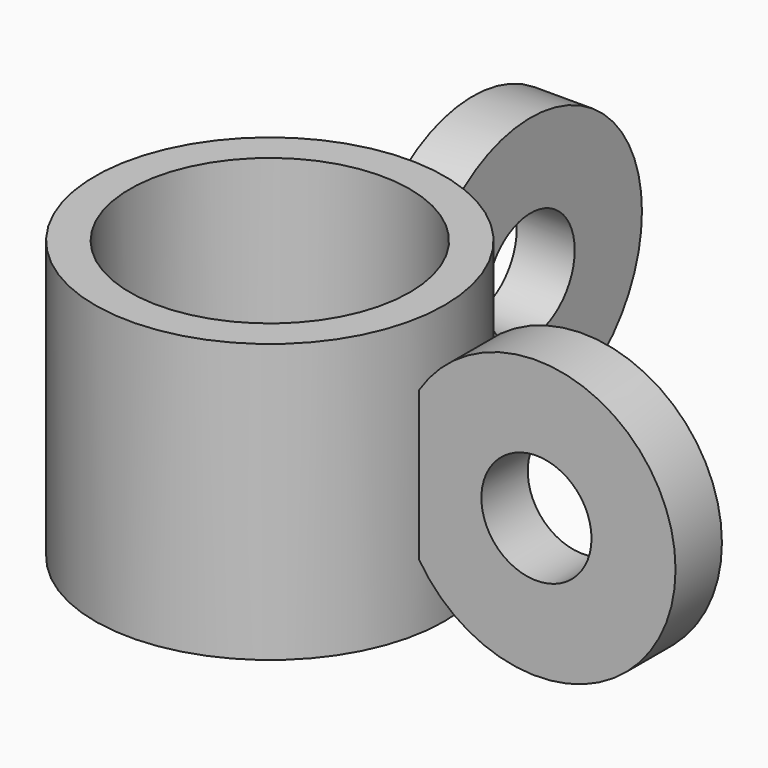
from build123d import *

# Parameters (mm, degrees)
SKETCH_R      = 30.15
SKETCH_R_2    = 24.15
PAD_DEPTH     = 48
SKETCH001_R   = 24
SKETCH001_R_2 = 9.5
PAD001_DEPTH  = 10
SKETCH002_R   = 24
SKETCH002_R_2 = 9.5
PAD002_DEPTH  = 10


with BuildPart() as part:
    # Sketch → Pad (new body)
    with BuildSketch(Plane.XY):
        Circle(SKETCH_R)
        Circle(SKETCH_R_2, mode=Mode.SUBTRACT)
    extrude(amount=PAD_DEPTH)

    # Sketch001 → Pad001 (join)
    with BuildSketch(Plane.XZ.offset(-5)):
        with Locations((50, 24.15)):
            Circle(SKETCH001_R)
        with Locations((50, 24.15)):
            Circle(SKETCH001_R_2, mode=Mode.SUBTRACT)
    extrude(amount=PAD001_DEPTH)

    # Sketch002 → Pad002 (join)
    with BuildSketch(Plane.YZ.offset(-5)):
        with Locations((50, 24)):
            Circle(SKETCH002_R)
        with Locations((50, 24)):
            Circle(SKETCH002_R_2, mode=Mode.SUBTRACT)
    extrude(amount=PAD002_DEPTH)


solid = part.part
